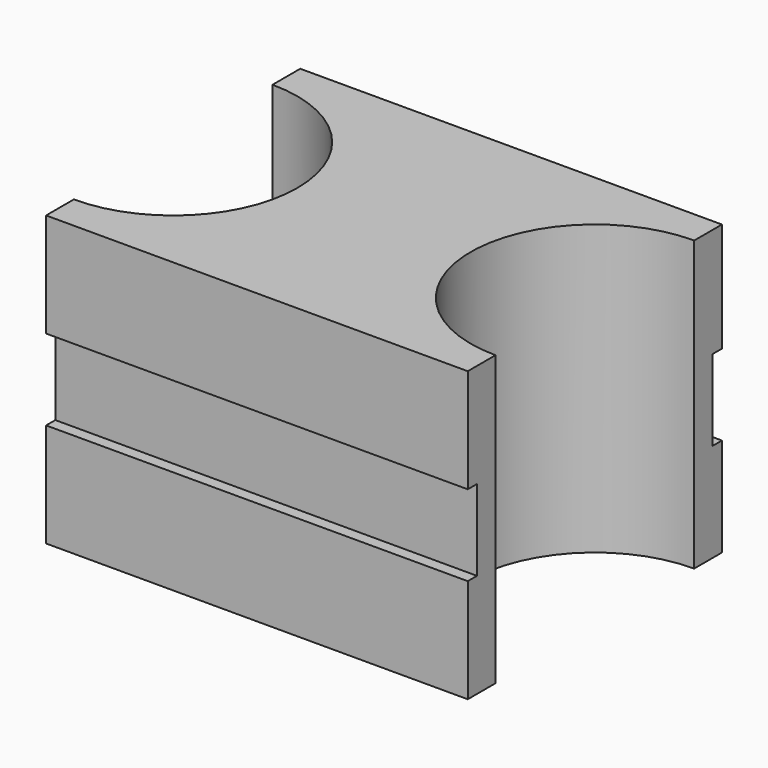
from build123d import *

# Parameters (mm, degrees)
F1_DEPTH = 25
F2_W     = 36.5
F2_H     = 7
F3_DEPTH = 1
F4_W     = 36.5
F4_H     = 7
F5_DEPTH = 1


with BuildPart() as f1:
    # F0 (on Top) → F1 (new body)
    with BuildSketch(Plane.XY):
        with BuildLine():
            ThreePointArc((19.203308, -7.914208), (8.453308, 2.835792), (19.203308, 13.585792))
            Line((19.203308, 13.585792), (19.203308, 16.585792))
            Line((19.203308, 16.585792), (-17.296692, 16.585792))
            Line((-17.296692, 16.585792), (-17.296692, 13.585792))
            ThreePointArc((-17.296692, 13.585792), (-9.695294, 10.43719), (-6.546692, 2.835792))
            ThreePointArc((-6.546692, 2.835792), (-9.695294, -4.765606), (-17.296692, -7.914208))
            Line((-17.296692, -7.914208), (-17.296692, -10.914208))
            Line((-17.296692, -10.914208), (19.203308, -10.914208))
            Line((19.203308, -10.914208), (19.203308, -7.914208))
        make_face()
    extrude(amount=F1_DEPTH)

    # F2 (on face) → F3 (cut)
    with BuildSketch(Plane.XZ.offset(10.914208)):
        with Locations((0.953308, 12.5)):
            Rectangle(F2_W, F2_H)
    extrude(amount=-F3_DEPTH, mode=Mode.SUBTRACT)

    # F4 (on face) → F5 (cut)
    with BuildSketch(Plane(origin=(0, 16.585792, 0), x_dir=(-1, 0, 0), z_dir=(0, 1, 0))):
        with Locations((-0.953308, 12.039038)):
            Rectangle(F4_W, F4_H)
    extrude(amount=-F5_DEPTH, mode=Mode.SUBTRACT)


solid = f1.part
